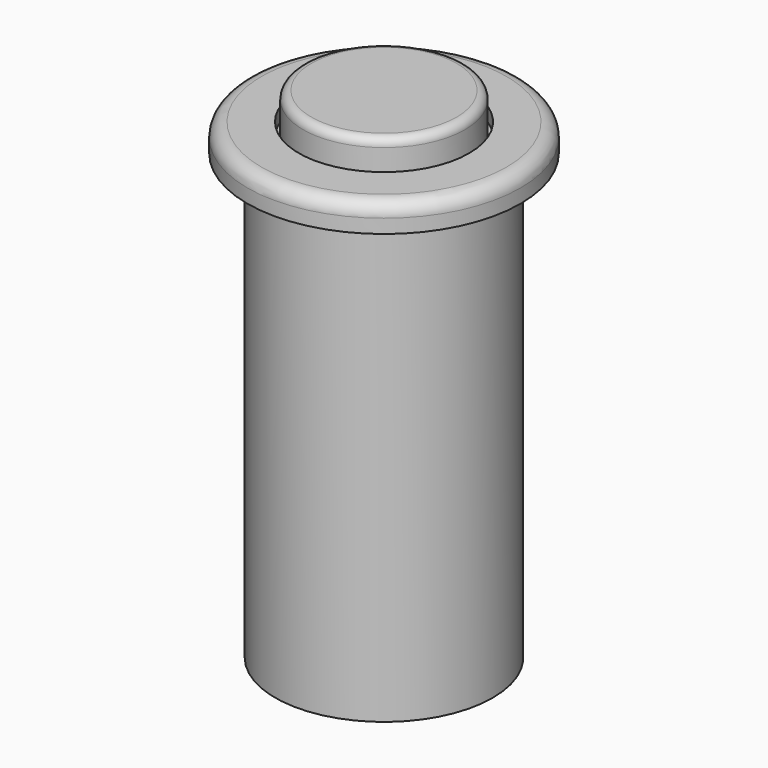
from build123d import *


with BuildPart() as f1:
    # F0 (on Front) → F1 (revolve)
    with BuildSketch(Plane.XZ):
        with BuildLine():
            Line((12.446, -25.4), (12.446, 25.4))
            Line((12.446, 25.4), (15.621, 25.4))
            Line((15.621, 25.4), (15.621, 26.9875))
            ThreePointArc((15.621, 26.9875), (15.156032, 28.110032), (14.0335, 28.575))
            Line((14.0335, 28.575), (9.74344, 28.575))
            Line((9.74344, 28.575), (9.74344, 26.9875))
            Line((9.74344, 26.9875), (9.271, 26.9875))
            Line((9.271, 26.9875), (9.271, 28.575))
            Line((9.271, 28.575), (9.271, 30.7975))
            ThreePointArc((9.271, 30.7975), (8.992019, 31.471019), (8.3185, 31.75))
            Line((8.3185, 31.75), (0, 31.75))
            Line((0, 31.75), (0, -25.4))
            Line((0, -25.4), (12.446, -25.4))
        make_face()
    revolve(axis=Axis((0, 0, -2.180368), (0, 0, -1)))


solid = f1.part
